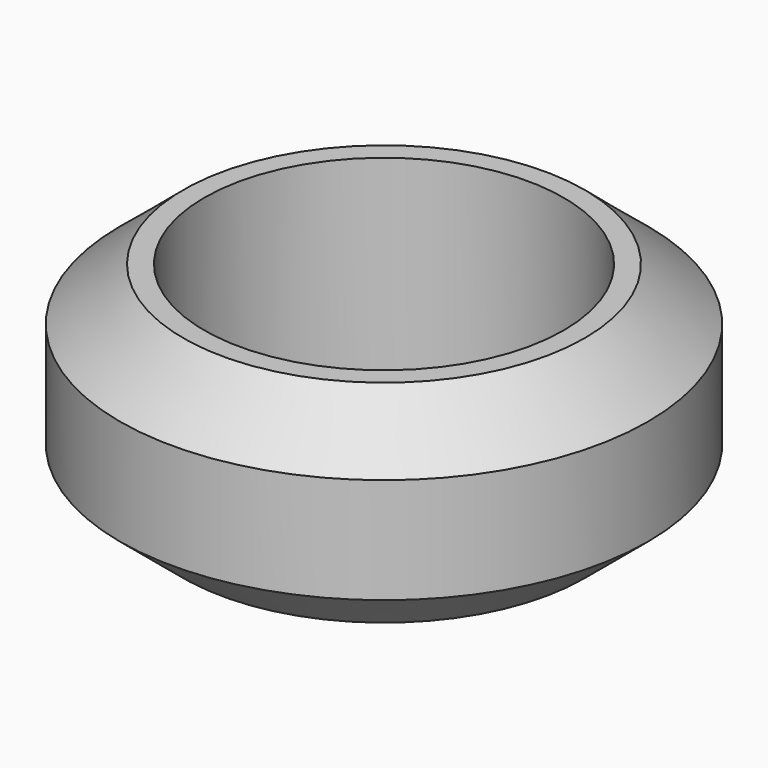
from build123d import *

# Parameters (mm, degrees)
F0_R     = 12.5
F1_DEPTH = 10
F2_R     = 8.505
F3_DEPTH = 27.2
F4_SIZE2 = 3
F4_SIZE  = 2.5


with BuildPart() as f1:
    # F0 (on Top) → F1 (new body)
    with BuildSketch(Plane.XY):
        Circle(F0_R)
    extrude(amount=F1_DEPTH)

    # F2 (on Top) → F3 (cut)
    with BuildSketch(Plane.XY):
        Circle(F2_R)
    extrude(amount=F3_DEPTH, mode=Mode.SUBTRACT)

    # F4
    f4_edges = [f1.edges().sort_by_distance(p)[0] for p in [
        (12.5, 0, 5),
        (-12.5, 0, 0),
        (-12.5, 0, 10),
    ]]
    chamfer(f4_edges, length=F4_SIZE, length2=F4_SIZE2)


solid = f1.part
